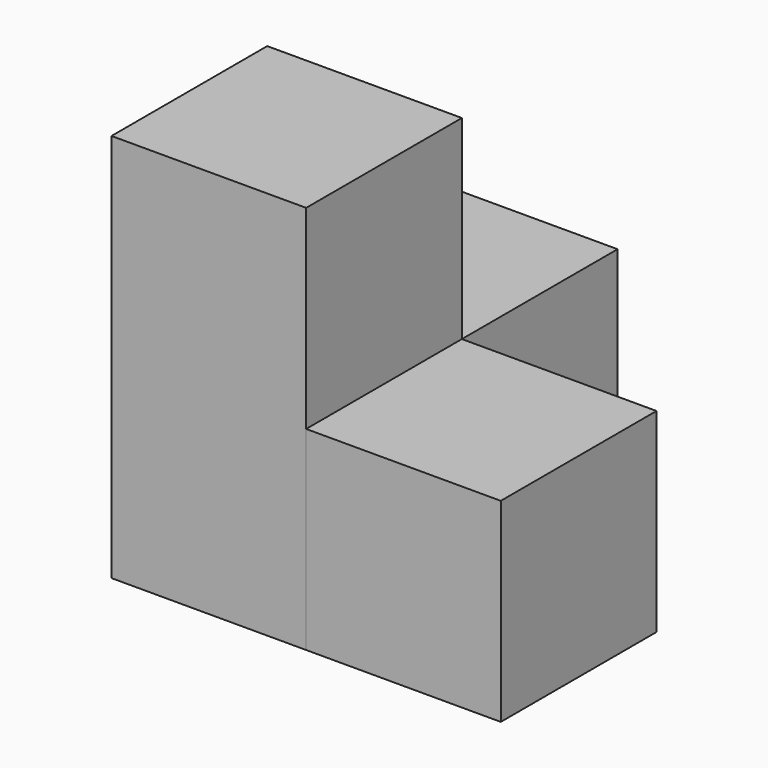
from build123d import *

# Parameters (mm, degrees)
BOX001_W     = 10
BOX001_H     = 10
BOX001_DEPTH = 20
BOX002_W     = 10
BOX002_H     = 10
BOX002_DEPTH = 10
BOX003_W     = 10
BOX003_H     = 10
BOX003_DEPTH = 10


with BuildPart() as box001:
    # Box001 → Box001 (new body)
    with BuildSketch(Plane.XY):
        with Locations((5, 5)):
            Rectangle(BOX001_W, BOX001_H)
    extrude(amount=BOX001_DEPTH)


with BuildPart() as nivell_2_cub1:
    # Box002 → Box002 (new body)
    with BuildSketch(Plane(origin=(10, 0, 0), x_dir=(1, 0, 0), z_dir=(0, 0, 1))):
        with Locations((5, 5)):
            Rectangle(BOX002_W, BOX002_H)
    extrude(amount=BOX002_DEPTH)


with BuildPart() as box003:
    # Box003 → Box003 (new body)
    with BuildSketch(Plane(origin=(0, 10, 0), x_dir=(1, 0, 0), z_dir=(0, 0, 1))):
        with Locations((5, 5)):
            Rectangle(BOX003_W, BOX003_H)
    extrude(amount=BOX003_DEPTH)


solid = Compound([box001.part, nivell_2_cub1.part, box003.part])
